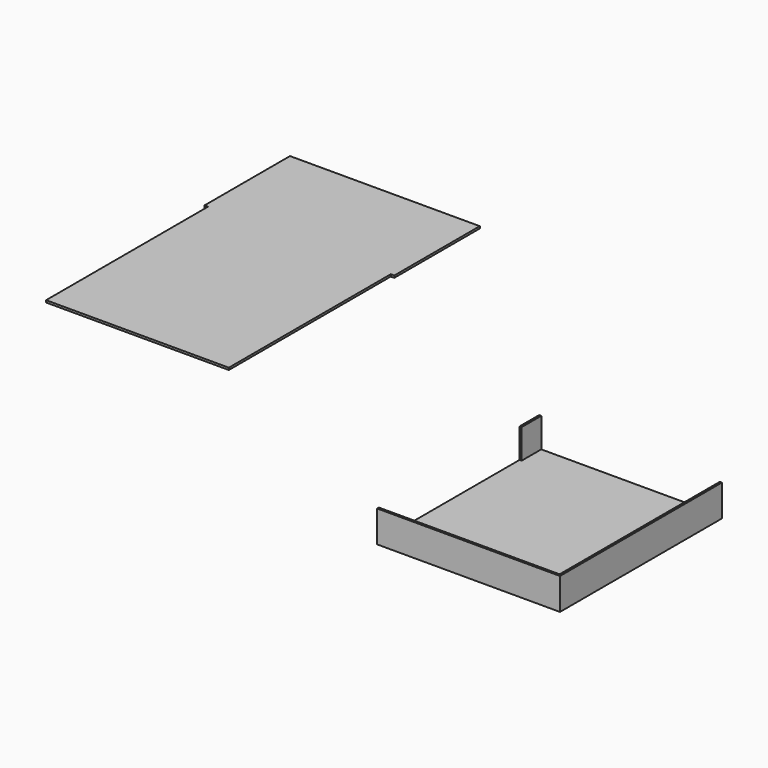
from build123d import *

# Parameters (mm, degrees)
F1_DEPTH = 3
F2_W     = 260
F2_H     = 288
F3_DEPTH = 45
F4_W     = 254
F4_H     = 285
F5_DEPTH = 42
F6_ANGLE = 180
F7_W     = 3
F7_H     = 250
F8_DEPTH = 42


with BuildPart() as f1:
    # F0 (on Top) → F1 (new body)
    with BuildSketch(Plane.XY):
        Polygon((186.898174, 208.404309), (-83.101826, 208.404309), (-83.101826, 56.404309), (-78.101826, 56.404309), (-78.101826, -231.595691), (181.898174, -231.595691), (181.898174, 56.404309), (186.898174, 56.404309), align=None)
    extrude(amount=F1_DEPTH)


with BuildPart() as f3:
    # F2 (on face) → F3 (new body)
    with BuildSketch(Plane.XY.offset(3)):
        with Locations((392.354662, 38.761406)):
            Rectangle(F2_W, F2_H)
    extrude(amount=-F3_DEPTH)

    # F4 (on face) → F5 (cut)
    with BuildSketch(Plane.XY.offset(3)):
        with Locations((392.354662, 37.261406)):
            Rectangle(F4_W, F4_H)
    extrude(amount=-F5_DEPTH, mode=Mode.SUBTRACT)


with BuildPart() as f3_1:
    # F6: moved
    add(f3.part.rotate(Axis((522.354662, -105.238594, -19.5), (0, 0, 1)), F6_ANGLE))

    # F7 (on face) → F8 (cut)
    with BuildSketch(Plane.XY.offset(3)):
        with Locations((523.854662, -265.238594)):
            Rectangle(F7_W, F7_H)
    extrude(amount=-F8_DEPTH, mode=Mode.SUBTRACT)


solid = Compound([f1.part, f3_1.part])
